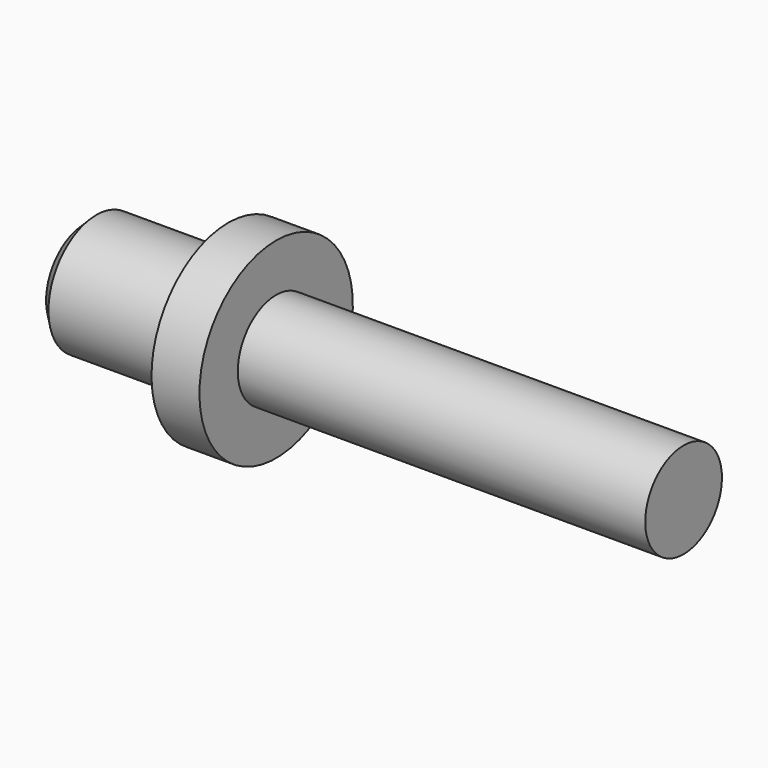
from build123d import *

# Parameters (mm, degrees)
F2_SIZE = 0.5


with BuildPart() as f1:
    # F0 (on Front) → F1 (revolve)
    with BuildSketch(Plane.XZ):
        Polygon((0, 2.5), (0, 0), (25, 0), (25, 2), (8, 2), (8, 4), (6, 4), (6, 2.5), align=None)
    revolve(axis=Axis((12.5, 0, 0), (1, 0, 0)))

    # F2
    f2_edges = [f1.edges().sort_by_distance(p)[0] for p in [
        (0, 0, -2.5),
    ]]
    chamfer(f2_edges, length=F2_SIZE)


solid = f1.part
